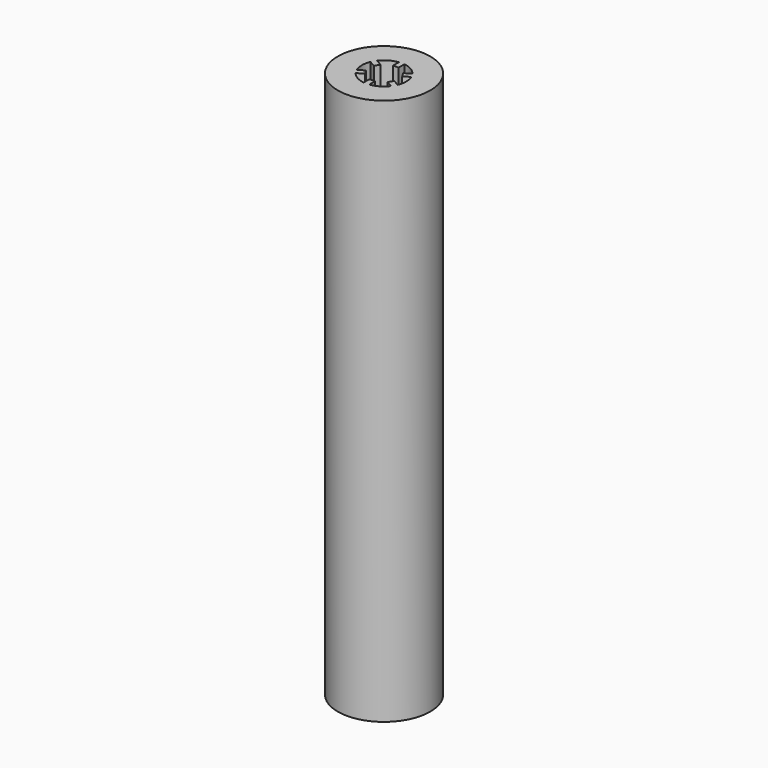
from build123d import *

# Parameters (mm, degrees)
F0_R     = 12.5
F1_DEPTH = 148


with BuildPart() as f1:
    # F0 (on Top) → F1 (new body)
    with BuildSketch(Plane.XY):
        Circle(F0_R)
        with BuildLine():
            ThreePointArc((5.5303976568, 2.3269511721), (5.8814278003, 1.1869317712), (6, 0))
            ThreePointArc((6, 0), (5.8814278003, -1.1869317712), (5.5303976568, -2.3269511721))
            Line((5.5303976568, -2.3269511721), (5.5711524227, -2.3504809472))
            Line((5.5711524227, -2.3504809472), (5.1961523876, -3.0000000609))
            Line((5.1961523876, -3.0000000609), (4.8211524227, -3.6495190528))
            Line((4.8211524227, -3.6495190528), (4.7803976568, -3.6259892778))
            ThreePointArc((4.7803976568, -3.6259892778), (3, -5.1961524227), (0.75, -5.9529404499))
            Line((0.75, -5.9529404499), (0.75, -6))
            Line((0.75, -6), (0, -6))
            Line((0, -6), (-0.75, -6))
            Line((-0.75, -6), (-0.75, -5.9529404499))
            ThreePointArc((-0.75, -5.9529404499), (-3, -5.1961524227), (-4.7803976568, -3.6259892778))
            Line((-4.7803976568, -3.6259892778), (-4.8211524227, -3.6495190528))
            Line((-4.8211524227, -3.6495190528), (-5.1961524003, -3.0000000387))
            Line((-5.1961524003, -3.0000000387), (-5.5711524227, -2.3504809472))
            Line((-5.5711524227, -2.3504809472), (-5.5303976568, -2.3269511721))
            ThreePointArc((-5.5303976568, -2.3269511721), (-6, 0), (-5.5303976568, 2.3269511721))
            Line((-5.5303976568, 2.3269511721), (-5.5711524227, 2.3504809472))
            Line((-5.5711524227, 2.3504809472), (-5.1961524003, 3.0000000387))
            Line((-5.1961524003, 3.0000000387), (-4.8211524227, 3.6495190528))
            Line((-4.8211524227, 3.6495190528), (-4.7803976568, 3.6259892778))
            ThreePointArc((-4.7803976568, 3.6259892778), (-3, 5.1961524227), (-0.75, 5.9529404499))
            Line((-0.75, 5.9529404499), (-0.75, 6))
            Line((-0.75, 6), (0, 6))
            Line((0, 6), (0.75, 6))
            Line((0.75, 6), (0.75, 5.9529404499))
            ThreePointArc((0.75, 5.9529404499), (3, 5.1961524227), (4.7803976568, 3.6259892778))
            Line((4.7803976568, 3.6259892778), (4.8211524227, 3.6495190528))
            Line((4.8211524227, 3.6495190528), (5.1961524003, 3.0000000387))
            Line((5.1961524003, 3.0000000387), (5.5711524227, 2.3504809472))
            Line((5.5711524227, 2.3504809472), (5.5303976568, 2.3269511721))
        make_face(mode=Mode.SUBTRACT)
        with BuildLine():
            Line((-3.0891016151, 2.6495190528), (-4.7803976568, 3.6259892778))
            ThreePointArc((-4.7803976568, 3.6259892778), (-4.9980849725, 3.3195099951), (-5.1961524003, 3.0000000387))
            ThreePointArc((-5.1961524003, 3.0000000387), (-5.3738224502, 2.668713599), (-5.5303976568, 2.3269511721))
            Line((-5.5303976568, 2.3269511721), (-3.8391016151, 1.3504809472))
            Line((-3.8391016151, 1.3504809472), (-3.0891016151, 2.6495190528))
        make_face()
        with BuildLine():
            Line((0.75, 4), (0.75, 5.9529404499))
            ThreePointArc((0.75, 5.9529404499), (0.3757374753, 5.9882235554), (0, 6))
            ThreePointArc((0, 6), (-0.3757374753, 5.9882235554), (-0.75, 5.9529404499))
            Line((-0.75, 5.9529404499), (-0.75, 4))
            Line((-0.75, 4), (0.75, 4))
        make_face()
        with BuildLine():
            Line((3.8391016151, 1.3504809472), (5.5303976568, 2.3269511721))
            ThreePointArc((5.5303976568, 2.3269511721), (5.3738224502, 2.668713599), (5.1961524003, 3.0000000387))
            ThreePointArc((5.1961524003, 3.0000000387), (4.9980849725, 3.3195099951), (4.7803976568, 3.6259892778))
            Line((4.7803976568, 3.6259892778), (3.0891016151, 2.6495190528))
            Line((3.0891016151, 2.6495190528), (3.8391016151, 1.3504809472))
        make_face()
        with BuildLine():
            ThreePointArc((5.1961523876, -3.0000000609), (5.3738224445, -2.6687136105), (5.5303976568, -2.3269511721))
            Line((5.5303976568, -2.3269511721), (3.8391016151, -1.3504809472))
            Line((3.8391016151, -1.3504809472), (3.0891016151, -2.6495190528))
            Line((3.0891016151, -2.6495190528), (4.7803976568, -3.6259892778))
            ThreePointArc((4.7803976568, -3.6259892778), (4.9980849655, -3.3195100057), (5.1961523876, -3.0000000609))
        make_face()
        with BuildLine():
            ThreePointArc((0, -6), (0.3757374753, -5.9882235554), (0.75, -5.9529404499))
            Line((0.75, -5.9529404499), (0.75, -4))
            Line((0.75, -4), (-0.75, -4))
            Line((-0.75, -4), (-0.75, -5.9529404499))
            ThreePointArc((-0.75, -5.9529404499), (-0.3757374753, -5.9882235554), (0, -6))
        make_face()
        with BuildLine():
            ThreePointArc((-5.1961524003, -3.0000000387), (-4.9980849725, -3.3195099951), (-4.7803976568, -3.6259892778))
            Line((-4.7803976568, -3.6259892778), (-3.0891016151, -2.6495190528))
            Line((-3.0891016151, -2.6495190528), (-3.8391016151, -1.3504809472))
            Line((-3.8391016151, -1.3504809472), (-5.5303976568, -2.3269511721))
            ThreePointArc((-5.5303976568, -2.3269511721), (-5.3738224502, -2.668713599), (-5.1961524003, -3.0000000387))
        make_face()
        with BuildLine():
            ThreePointArc((0, 6), (0.3757374753, 5.9882235554), (0.75, 5.9529404499))
            Line((0.75, 5.9529404499), (0.75, 6))
            Line((0.75, 6), (0, 6))
        make_face()
        with BuildLine():
            ThreePointArc((-0.75, 5.9529404499), (-0.3757374753, 5.9882235554), (0, 6))
            Line((0, 6), (-0.75, 6))
            Line((-0.75, 6), (-0.75, 5.9529404499))
        make_face()
        with BuildLine():
            ThreePointArc((-5.1961524003, 3.0000000387), (-4.9980849725, 3.3195099951), (-4.7803976568, 3.6259892778))
            Line((-4.7803976568, 3.6259892778), (-4.8211524227, 3.6495190528))
            Line((-4.8211524227, 3.6495190528), (-5.1961524003, 3.0000000387))
        make_face()
        with BuildLine():
            ThreePointArc((4.7803976568, 3.6259892778), (4.9980849725, 3.3195099951), (5.1961524003, 3.0000000387))
            Line((5.1961524003, 3.0000000387), (4.8211524227, 3.6495190528))
            Line((4.8211524227, 3.6495190528), (4.7803976568, 3.6259892778))
        make_face()
        with BuildLine():
            Line((0.75, -6), (0.75, -5.9529404499))
            ThreePointArc((0.75, -5.9529404499), (0.3757374753, -5.9882235554), (0, -6))
            Line((0, -6), (0.75, -6))
        make_face()
        with BuildLine():
            Line((4.8211524227, -3.6495190528), (5.1961523876, -3.0000000609))
            ThreePointArc((5.1961523876, -3.0000000609), (4.9980849655, -3.3195100057), (4.7803976568, -3.6259892778))
            Line((4.7803976568, -3.6259892778), (4.8211524227, -3.6495190528))
        make_face()
        with BuildLine():
            ThreePointArc((5.1961524003, 3.0000000387), (5.3738224502, 2.668713599), (5.5303976568, 2.3269511721))
            Line((5.5303976568, 2.3269511721), (5.5711524227, 2.3504809472))
            Line((5.5711524227, 2.3504809472), (5.1961524003, 3.0000000387))
        make_face()
        with BuildLine():
            ThreePointArc((-5.5303976568, 2.3269511721), (-5.3738224502, 2.668713599), (-5.1961524003, 3.0000000387))
            Line((-5.1961524003, 3.0000000387), (-5.5711524227, 2.3504809472))
            Line((-5.5711524227, 2.3504809472), (-5.5303976568, 2.3269511721))
        make_face()
        with BuildLine():
            Line((-5.5711524227, -2.3504809472), (-5.1961524003, -3.0000000387))
            ThreePointArc((-5.1961524003, -3.0000000387), (-5.3738224502, -2.668713599), (-5.5303976568, -2.3269511721))
            Line((-5.5303976568, -2.3269511721), (-5.5711524227, -2.3504809472))
        make_face()
        with BuildLine():
            Line((-4.8211524227, -3.6495190528), (-4.7803976568, -3.6259892778))
            ThreePointArc((-4.7803976568, -3.6259892778), (-4.9980849725, -3.3195099951), (-5.1961524003, -3.0000000387))
            Line((-5.1961524003, -3.0000000387), (-4.8211524227, -3.6495190528))
        make_face()
        with BuildLine():
            Line((-0.75, -6), (0, -6))
            ThreePointArc((0, -6), (-0.3757374753, -5.9882235554), (-0.75, -5.9529404499))
            Line((-0.75, -5.9529404499), (-0.75, -6))
        make_face()
        with BuildLine():
            Line((5.5711524227, -2.3504809472), (5.5303976568, -2.3269511721))
            ThreePointArc((5.5303976568, -2.3269511721), (5.3738224445, -2.6687136105), (5.1961523876, -3.0000000609))
            Line((5.1961523876, -3.0000000609), (5.5711524227, -2.3504809472))
        make_face()
    extrude(amount=F1_DEPTH)


solid = f1.part
